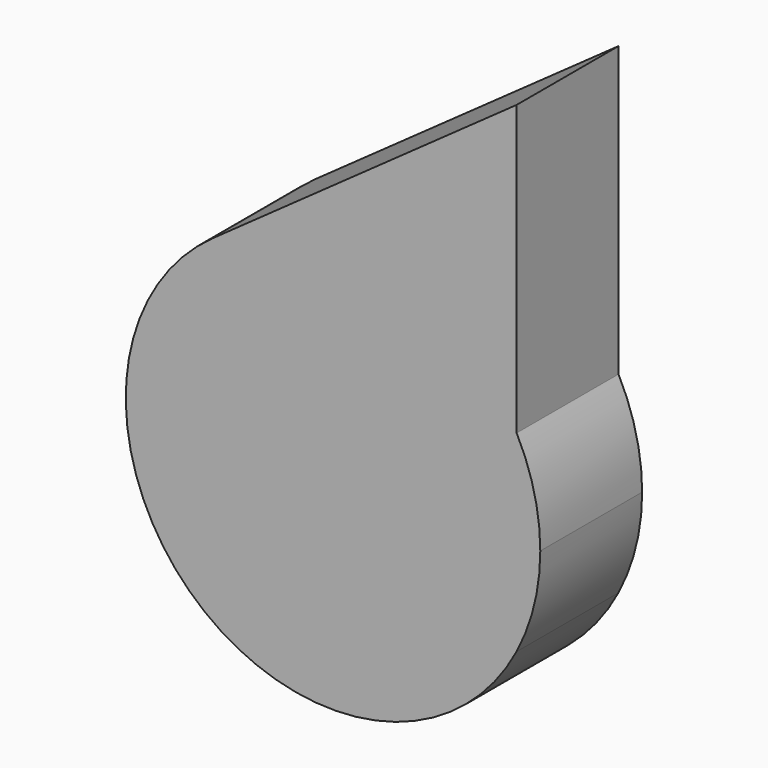
from build123d import *

# Parameters (mm, degrees)
F2_DEPTH = 25.4
F3_DEPTH = 25.4


with BuildPart() as f2:
    # F0 (on Front) → F2 (new body)
    with BuildSketch(Plane.XZ):
        with BuildLine():
            ThreePointArc((36.588859, -19.241439), (26.227151, -0.024717), (36.62506, 19.172441))
            ThreePointArc((36.62506, 19.172441), (9.628766, 40.202791), (-23.965633, 33.68421))
            ThreePointArc((-23.965633, 33.68421), (-27.205101, -31.126516), (36.588859, -19.241439))
        make_face()
    extrude(amount=F2_DEPTH)

    # F0 (on Front) → F3 (join)
    with BuildSketch(Plane.XZ):
        with BuildLine():
            ThreePointArc((36.588859, -19.241439), (40.13448, -9.909645), (41.339782, 0))
            ThreePointArc((41.339782, 0), (40.143801, 9.871817), (36.62506, 19.172441))
            ThreePointArc((36.62506, 19.172441), (26.227151, -0.024717), (36.588859, -19.241439))
        make_face()
        with BuildLine():
            ThreePointArc((36.588859, -19.241439), (26.227151, -0.024717), (36.62506, 19.172441))
            ThreePointArc((36.62506, 19.172441), (9.628766, 40.202791), (-23.965633, 33.68421))
            ThreePointArc((-23.965633, 33.68421), (-27.205101, -31.126516), (36.588859, -19.241439))
        make_face()
        with BuildLine():
            ThreePointArc((-23.965633, 33.68421), (9.628766, 40.202791), (36.62506, 19.172441))
            Line((36.62506, 19.172441), (36.62506, 76.793261))
            Line((36.62506, 76.793261), (-23.965633, 33.68421))
        make_face()
    extrude(amount=F3_DEPTH)


solid = f2.part
